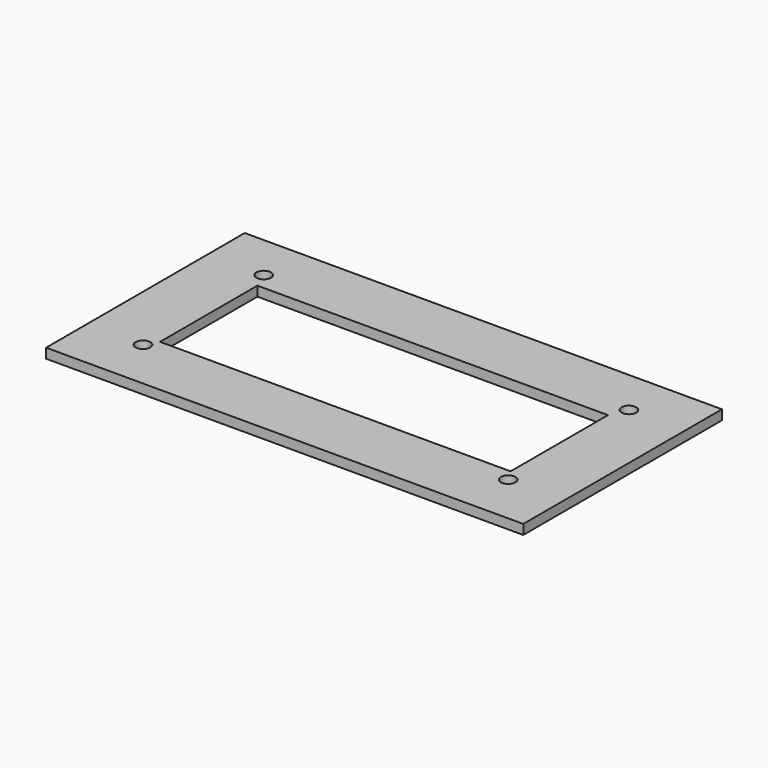
from build123d import *

# Parameters (mm, degrees)
F0_W     = 98
F0_H     = 51
F0_R     = 1.5
F0_W_2   = 72
F0_H_2   = 25
F1_DEPTH = 2


with BuildPart() as f1:
    # F0 (on Top) → F1 (new body)
    with BuildSketch(Plane.XY):
        with Locations((-36, 12.5)):
            Rectangle(F0_W, F0_H)
        with Locations((-73.5, -2.5)):
            Circle(F0_R, mode=Mode.SUBTRACT)
        with Locations((1.5, -2.5)):
            Circle(F0_R, mode=Mode.SUBTRACT)
        with Locations((-36, 12.5)):
            Rectangle(F0_W_2, F0_H_2, mode=Mode.SUBTRACT)
        with Locations((-73.5, 28.5)):
            Circle(F0_R, mode=Mode.SUBTRACT)
        with Locations((1.5, 28.5)):
            Circle(F0_R, mode=Mode.SUBTRACT)
    extrude(amount=-F1_DEPTH)


solid = f1.part
